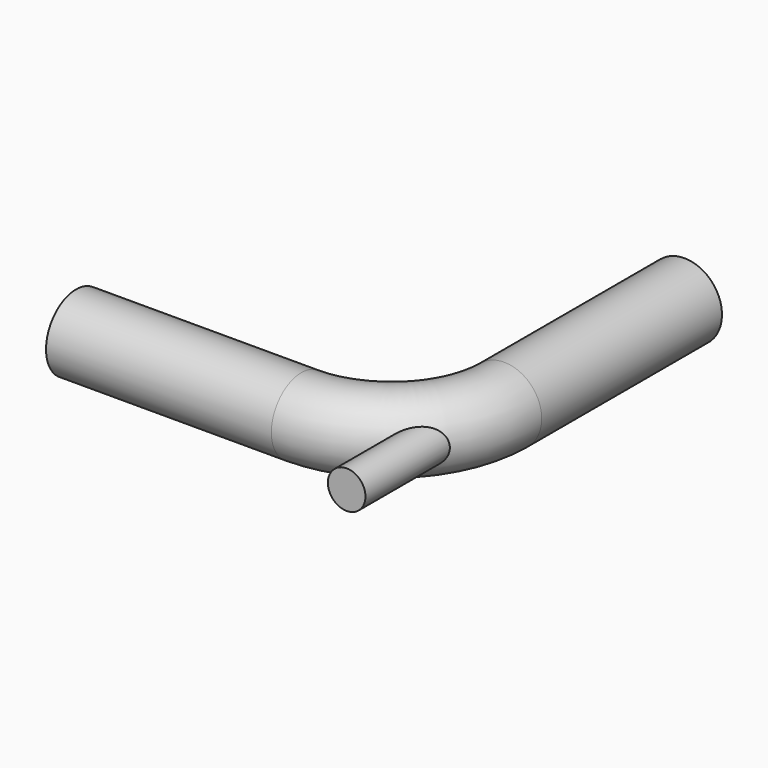
from build123d import *

# Parameters (mm, degrees)
F1_R     = 500
F4_R     = 250
F5_DEPTH = 2620


with BuildPart() as f2:
    # F2: sweep along a path in F0
    with BuildLine(Plane.XY) as f2_path:
        Line((0, 0), (3000, 0))
        ThreePointArc((3000, 0), (4060.660172, 439.339828), (4500, 1500))
        Line((4500, 1500), (4500, 4500))
    # F1 (on Right) → F2 (sweep)
    with BuildSketch(Plane.YZ):
        Circle(F1_R)
    sweep(path=f2_path.line)

    # F4 (on face) → F5 (join)
    with BuildSketch(Plane.XZ.offset(1014.213562)):
        with Locations((4414.213562, 0)):
            Circle(F4_R)
    extrude(amount=-F5_DEPTH)


solid = f2.part
